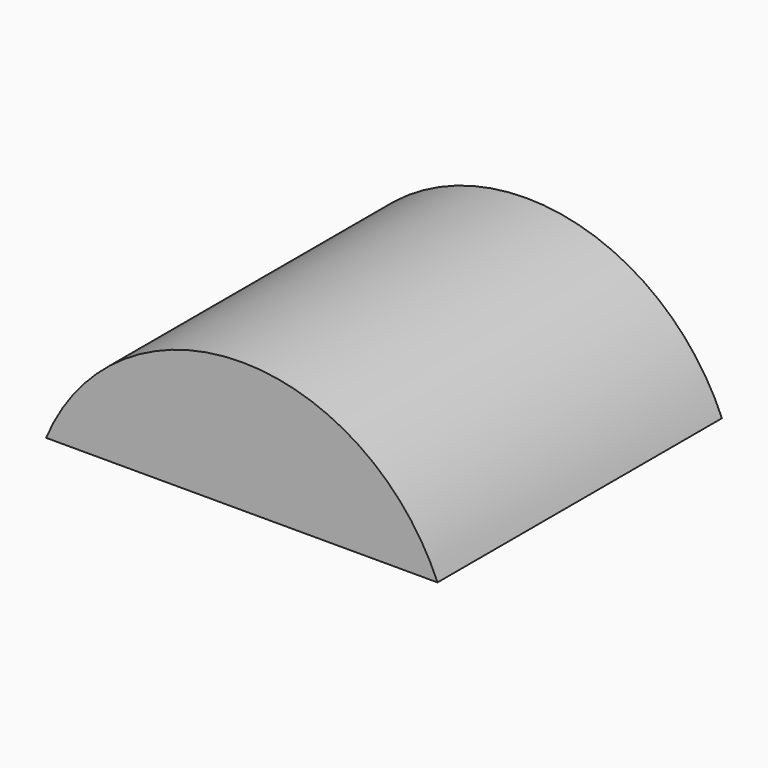
from build123d import *

# Parameters (mm, degrees)
F0_W     = 102.975384
F0_H     = 93.525842
F1_DEPTH = 80.70091
F3_DEPTH = 127.05569


with BuildPart() as f1:
    # F0 (on Top) → F1 (new body)
    with BuildSketch(Plane.XY):
        with Locations((7.310681, -5.249612)):
            Rectangle(F0_W, F0_H)
    extrude(amount=F1_DEPTH)

    # F2 (on face) → F3 (intersect)
    with BuildSketch(Plane.XZ.offset(52.012533)):
        with BuildLine():
            Line((-44.177011, 0), (58.798373, 0))
            ThreePointArc((58.798373, 0), (7.310681, 34.286751), (-44.177011, 0))
        make_face()
    extrude(amount=-F3_DEPTH, mode=Mode.INTERSECT)


solid = f1.part
